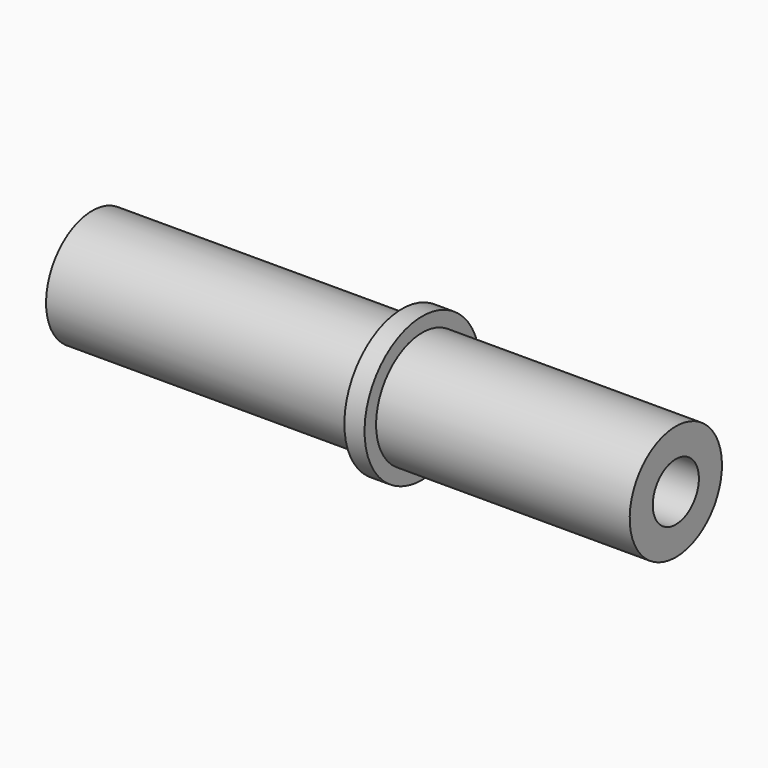
from build123d import *

# Parameters (mm, degrees)
CYLINDER135_R     = 2
CYLINDER135_DEPTH = 47.8
CYLINDER117_R     = 4
CYLINDER117_DEPTH = 40.5
CYLINDER108_R     = 5
CYLINDER108_DEPTH = 1.4


with BuildPart() as cylinder135:
    # Cylinder135 → Cylinder135 (new body)
    with BuildSketch(Plane(origin=(9.4, 62, 10), x_dir=(0, 0, -1), z_dir=(1, 0, 0))):
        Circle(CYLINDER135_R)
    extrude(amount=CYLINDER135_DEPTH)


with BuildPart() as cylinder117:
    # Cylinder117 → Cylinder117 (new body)
    with BuildSketch(Plane(origin=(16.7, 62, 10), x_dir=(0, 0, -1), z_dir=(1, 0, 0))):
        Circle(CYLINDER117_R)
    extrude(amount=CYLINDER117_DEPTH)


with BuildPart() as cut092:
    # Cylinder108 → Cylinder108 (new body)
    with BuildSketch(Plane(origin=(38.2, 62, 10), x_dir=(0, 0, -1), z_dir=(1, 0, 0))):
        Circle(CYLINDER108_R)
    extrude(amount=CYLINDER108_DEPTH)

    # Fusion141: union Cylinder117
    add(cylinder117.part)

    # Cut092: cut Cylinder135
    add(cylinder135.part, mode=Mode.SUBTRACT)


with BuildPart() as cut092_1:
    # Cut092 placement: moved
    add(cut092.part.moved(Location((-4, -10, 0))))


solid = cut092_1.part
